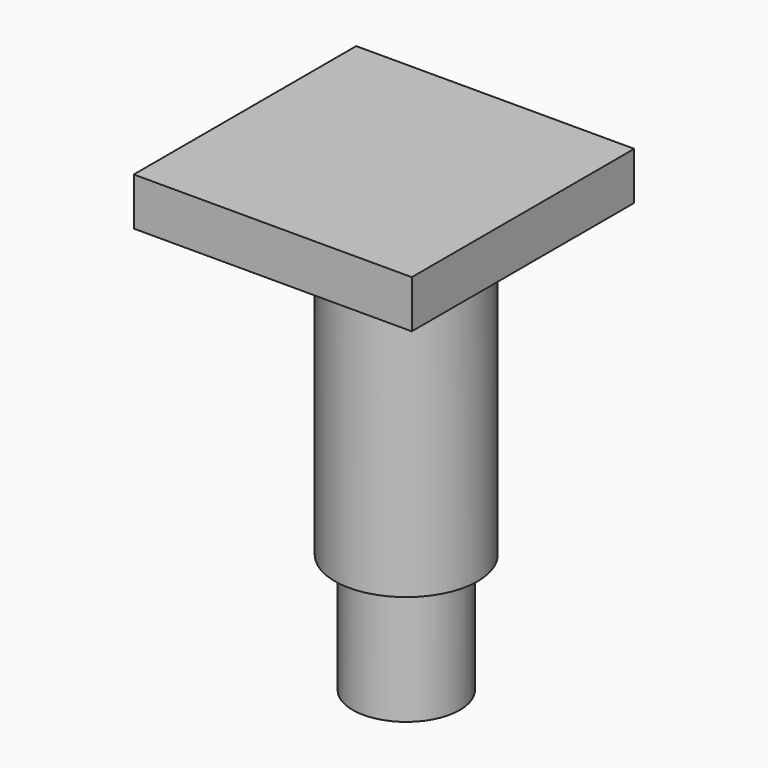
from build123d import *

# Parameters (mm, degrees)
F1_R     = 6.75
F2_DEPTH = 15
F3_R     = 9
F4_DEPTH = 45
F5_W     = 35
F5_H     = 35
F5_R     = 9
F6_DEPTH = 6
F7_R     = 1.4
F8_DEPTH = 15


with BuildPart() as f2:
    # F1 (on offset) → F2 (new body)
    with BuildSketch(Plane.XY.offset(40)):
        Circle(F1_R)
    extrude(amount=-F2_DEPTH)

    # F3 (on offset) → F4 (join)
    with BuildSketch(Plane.XY.offset(40)):
        Circle(F3_R)
    extrude(amount=F4_DEPTH)

    # F5 (on face) → F6 (join)
    with BuildSketch(Plane.XY.offset(85)):
        with Locations((0, -3.5)):
            Rectangle(F5_W, F5_H)
        Circle(F5_R, mode=Mode.SUBTRACT)
    extrude(amount=-F6_DEPTH)

    # F7 (on face) → F8 (cut)
    with BuildSketch(Plane(origin=(0, 14, 0), x_dir=(-1, 0, 0), z_dir=(0, 1, 0))):
        with Locations((-10, 82)):
            Circle(F7_R)
        with Locations((10, 82)):
            Circle(F7_R)
    extrude(amount=-F8_DEPTH, mode=Mode.SUBTRACT)


solid = f2.part
